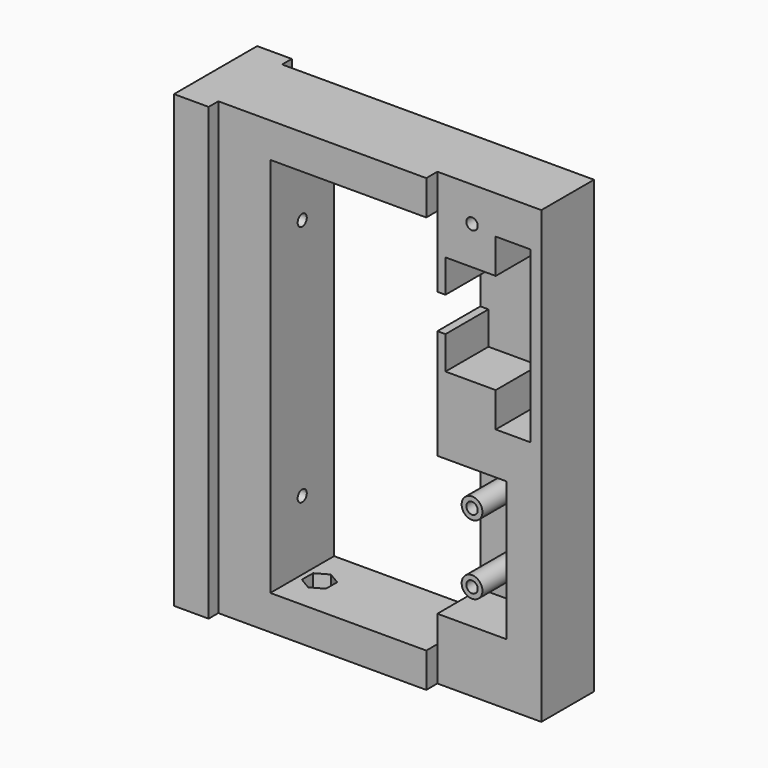
from build123d import *

# Parameters (mm, degrees)
F0_W      = 90
F0_H      = 130
F0_W_2    = 45
F0_H_2    = 110
F1_DEPTH  = 23
F2_W      = 3.5
F2_H      = 130
F2_W_2    = 23
F3_DEPTH  = 10
F5_DEPTH  = 4
F6_W      = 5.5
F6_H      = 10
F6_W_2    = 3.1640307605
F6_W_3    = 2.3359692395
F6_W_4    = 10
F6_W_5    = 20
F6_H_2    = 40.1
F6_R      = 3
F7_DEPTH  = 15.5
F9_D      = 3.3
F9_DEPTH  = 40
F9_TIP    = 0.9914200214
F10_D     = 3.3
F10_DEPTH = 40
F10_TIP   = 0.9914200214
F12_D     = 3.3
F12_DEPTH = 40
F12_TIP   = 0.9914200214
F14_D     = 4.4
F14_DEPTH = 10
F14_TIP   = 1.3218933619
F15_R     = 2.2
F16_DEPTH = 4


with BuildPart() as f1:
    # F0 (on Front) → F1 (new body)
    with BuildSketch(Plane.XZ):
        with Locations((10.2966074646, 21.924110651)):
            Rectangle(F0_W, F0_H)
        with Locations((2.7966074646, 21.924110651)):
            Rectangle(F0_W_2, F0_H_2, mode=Mode.SUBTRACT)
    extrude(amount=F1_DEPTH)

    # F2 (on face) → F3 (join)
    with BuildSketch(Plane(origin=(-34.7033925354, 0, 0), x_dir=(0, -1, 0), z_dir=(-1, 0, 0))):
        with Locations((-1.75, 21.924110651)):
            Rectangle(F2_W, F2_H)
        with Locations((11.5, 21.924110651)):
            Rectangle(F2_W_2, F2_H)
        with Locations((24.75, 21.924110651)):
            Rectangle(F2_W, F2_H)
    extrude(amount=F3_DEPTH)

    # F4 (on face) → F5 (cut)
    with BuildSketch(Plane.XZ.offset(23)):
        Polygon((55.2966074646, -43.075889349), (55.2966074646, 86.924110651), (25.2966074646, 86.924110651), (25.2966074646, 76.924110651), (25.2966074646, -33.075889349), (25.2966074646, -43.075889349), align=None)
    extrude(amount=-F5_DEPTH, mode=Mode.SUBTRACT)

    # F6 (on face) → F7 (cut)
    with BuildSketch(Plane.XZ.offset(19)):
        Polygon((42.132576704, 65.924110651), (27.632576704, 65.924110651), (27.632576704, 56.424110651), (33.132576704, 56.424110651), (33.132576704, 46.424110651), (27.632576704, 46.424110651), (27.632576704, 36.924110651), (42.132576704, 36.924110651), (52.132576704, 36.924110651), (52.132576704, 65.924110651), align=None)
        with Locations((30.382576704, 51.424110651)):
            Rectangle(F6_W, F6_H)
        with Locations((23.7145920843, 51.424110651)):
            Rectangle(F6_W_2, F6_H)
        with Locations((26.4645920843, 51.424110651)):
            Rectangle(F6_W_3, F6_H)
        with Locations((47.132576704, 70.924110651)):
            Rectangle(F6_W_4, F6_H)
        with Locations((47.132576704, 31.924110651)):
            Rectangle(F6_W_4, F6_H)
        with Locations((35.2966074646, -5.2936900675)):
            Rectangle(F6_W_5, F6_H_2)
        with Locations((35.2966074646, -15.2936900675)):
            Circle(F6_R, mode=Mode.SUBTRACT)
        with Locations((35.2966074646, 4.7063099325)):
            Circle(F6_R, mode=Mode.SUBTRACT)
    extrude(amount=-F7_DEPTH, mode=Mode.SUBTRACT)

    # F9
    with Locations(Plane.XZ.offset(19)):
        with Locations((35.2966074646, 4.7063099325), (35.2966074646, -15.2936900675)):
            Hole(F9_D / 2, depth=F9_DEPTH)
            with Locations((0, 0, -(F9_DEPTH + F9_TIP / 2))):  # 118° drill point
                Cone(0, F9_D / 2, F9_TIP, mode=Mode.SUBTRACT)

    # F10
    with Locations(Plane(origin=(0, 0, 0), x_dir=(1, 0, 0), z_dir=(0, 1, 0))):
        with Locations((35.2966074646, -76.924110651)):
            Hole(F10_D / 2, depth=F10_DEPTH)
            with Locations((0, 0, -(F10_DEPTH + F10_TIP / 2))):  # 118° drill point
                Cone(0, F10_D / 2, F10_TIP, mode=Mode.SUBTRACT)

    # F12 (one way)
    with BuildSketch(Plane.YZ.offset(-19.7033925354)):
        with Locations((-11.5, 56.924110651), (-11.5, -13.075889349)):
            Circle(F12_D / 2)
    extrude(amount=-F12_DEPTH, mode=Mode.SUBTRACT)
    with Locations(Plane.YZ.offset(-19.7033925354)):
        with Locations((-11.5, 56.924110651), (-11.5, -13.075889349)):
            with Locations((0, 0, -(F12_DEPTH + F12_TIP / 2))):  # 118° drill point
                Cone(0, F12_D / 2, F12_TIP, mode=Mode.SUBTRACT)

    # F14
    with Locations(Plane(origin=(0, 0, -43.075889349), x_dir=(1, 0, 0), z_dir=(0, 0, -1))):
        with Locations((-14.7033925354, 11.5)):
            Hole(F14_D / 2, depth=F14_DEPTH)
            with Locations((0, 0, -(F14_DEPTH + F14_TIP / 2))):  # 118° drill point
                Cone(0, F14_D / 2, F14_TIP, mode=Mode.SUBTRACT)

    # F15 (on face) → F16 (cut)
    with BuildSketch(Plane.XY.offset(-33.075889349)):
        Polygon((-11.1772465223, -9.524560281), (-14.6511005092, -7.4585481157), (-18.1772465223, -9.4339878346), (-18.2295385486, -13.475439719), (-14.7556845617, -15.5414518843), (-11.2295385486, -13.5660121654), align=None)
        with Locations((-14.7033925354, -11.5)):
            Circle(F15_R, mode=Mode.SUBTRACT)
    extrude(amount=-F16_DEPTH, mode=Mode.SUBTRACT)


solid = f1.part
